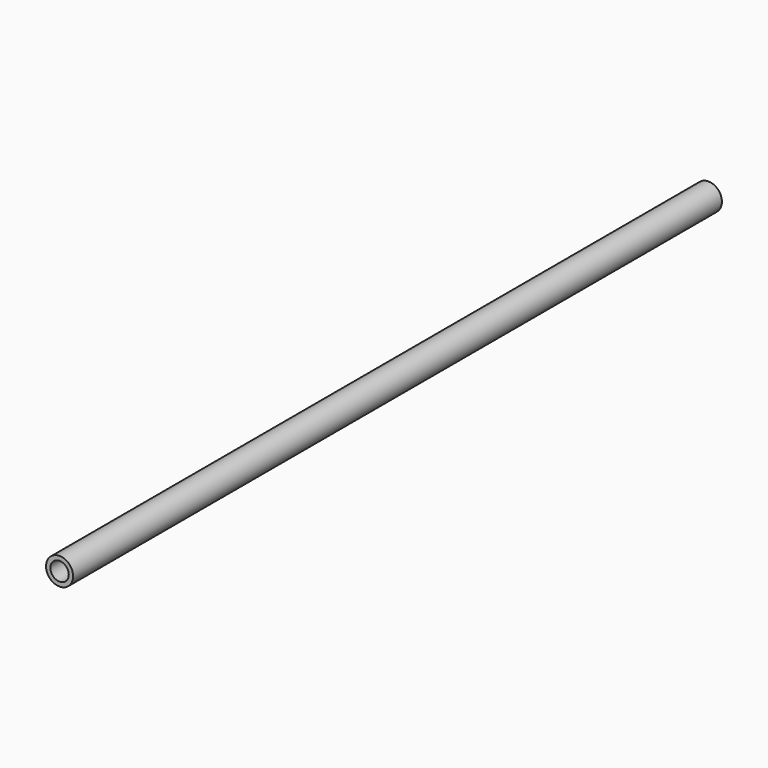
from build123d import *

# Parameters (mm, degrees)
F0_R     = 1.5875
F0_R_2   = 1.0795
F1_DEPTH = 95.25
F2_R     = 0.254
F3_DEPTH = 1.5885


with BuildPart() as f1:
    # F0 (on Front) → F1 (new body)
    with BuildSketch(Plane.XZ):
        Circle(F0_R)
        Circle(F0_R_2, mode=Mode.SUBTRACT)
    extrude(amount=F1_DEPTH)

    # F2 (on Top) → F3 (cut, through all)
    with BuildSketch(Plane.XY):
        with Locations((0, -71.4375)):
            Circle(F2_R)
        with Locations((0, -23.8125)):
            Circle(F2_R)
        with Locations((0, -47.625)):
            Circle(F2_R)
    extrude(amount=-F3_DEPTH, mode=Mode.SUBTRACT)


solid = f1.part
